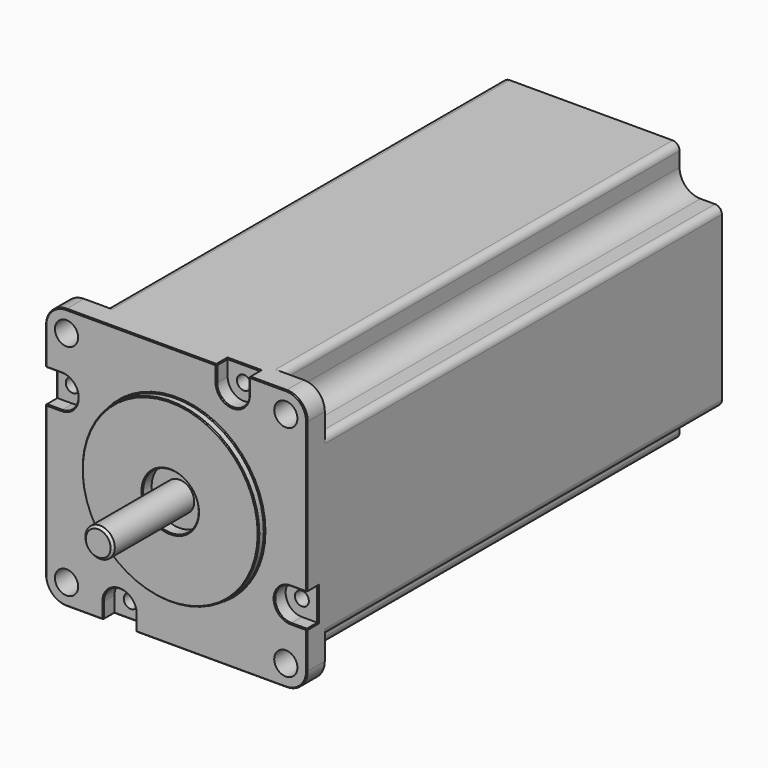
from build123d import *

# Parameters (mm, degrees)
SKETCH_R              = 19.05
PAD_DEPTH             = 1.6
SKETCH001_W           = 56.4
SKETCH001_H           = 56.4
PAD001_DEPTH          = 112
SKETCH002_R           = 6
POCKET_DEPTH          = 2.5
SKETCH003_R           = 3.175
PAD002_DEPTH          = 21.9
SKETCH004_R           = 6
POCKET001_DEPTH       = 4
SKETCH005_W           = 9.13
SKETCH005_H           = 9.13
POCKET002_DEPTH       = 1000
POLARPATTERN_COUNT    = 4
SKETCH006_R           = 2.5
POCKET003_DEPTH       = 5
POLARPATTERN001_COUNT = 4
POCKET004_DEPTH       = 3
POLARPATTERN002_COUNT = 4
FILLET_R              = 4.5
FILLET001_R           = 1.5
SKETCH008_R           = 1.5
POCKET005_DEPTH       = 1000
POLARPATTERN003_COUNT = 4
CHAMFER_SIZE          = 0.5
CHAMFER001_SIZE       = 0.2


with BuildPart() as part:
    # Sketch → Pad (new body)
    with BuildSketch(Plane.XZ):
        Circle(SKETCH_R)
    extrude(amount=PAD_DEPTH)

    # Sketch001 (on Face2 of Pad) → Pad001 (join)
    with BuildSketch(Plane(origin=(0, 0, 0), x_dir=(1, 0, 0), z_dir=(0, 1, 0))):
        Rectangle(SKETCH001_W, SKETCH001_H)
    extrude(amount=PAD001_DEPTH)

    # Sketch002 (on Face8 of Pad001) → Pocket (cut)
    with BuildSketch(Plane.XZ.offset(1.6)):
        Circle(SKETCH002_R)
    extrude(amount=-POCKET_DEPTH, mode=Mode.SUBTRACT)

    # Sketch003 (on Face10 of Pocket) → Pad002 (join)
    with BuildSketch(Plane.XZ.offset(-0.9)):
        Circle(SKETCH003_R)
    extrude(amount=PAD002_DEPTH)

    # Sketch004 (on Face5 of Pad002) → Pocket001 (cut)
    with BuildSketch(Plane(origin=(0, 112, 0), x_dir=(1, 0, 0), z_dir=(0, 1, 0))):
        Circle(SKETCH004_R)
    extrude(amount=-POCKET001_DEPTH, mode=Mode.SUBTRACT)

    # Sketch005 (on DatumPlane) → Pocket002 (cut)
    with BuildSketch(Plane.XZ.offset(-5)):
        with Locations((-23.635, 23.635)):
            Rectangle(SKETCH005_W, SKETCH005_H)
    pocket002 = extrude(amount=-POCKET002_DEPTH, mode=Mode.SUBTRACT)

    # PolarPattern: Pocket002 ×4 about axis
    polarpattern_axis = Axis((0, 5, 0), (0, -1, 0))
    for i in range(1, POLARPATTERN_COUNT):
        add(pocket002.rotate(polarpattern_axis, i * 360 / POLARPATTERN_COUNT), mode=Mode.SUBTRACT)

    # Sketch006 (on Face12 of PolarPattern) → Pocket003 (cut)
    with BuildSketch(Plane(origin=(0, 5, 0), x_dir=(1, 0, 0), z_dir=(0, 1, 0))):
        with Locations((-23.635, 23.635)):
            Circle(SKETCH006_R)
    pocket003 = extrude(amount=-POCKET003_DEPTH, mode=Mode.SUBTRACT)

    # PolarPattern001: Pocket003 ×4 about axis
    polarpattern001_axis = Axis((0, 5, 0), (0, 1, 0))
    for i in range(1, POLARPATTERN001_COUNT):
        add(pocket003.rotate(polarpattern001_axis, i * 360 / POLARPATTERN001_COUNT), mode=Mode.SUBTRACT)

    # Sketch007 (on Face2 of Pocket003) → Pocket004 (cut)
    with BuildSketch(Plane.XZ):
        with BuildLine():
            ThreePointArc((-15.7, -33.555168), (-12.2, -37.055168), (-8.7, -33.555168))
            Line((-8.7, -33.555168), (-8.7, -24.7))
            ThreePointArc((-8.7, -24.7), (-12.2, -21.2), (-15.7, -24.7))
            Line((-15.7, -33.555168), (-15.7, -24.7))
        make_face()
    pocket004 = extrude(amount=-POCKET004_DEPTH, mode=Mode.SUBTRACT)

    # PolarPattern002: Pocket004 ×4 about axis
    polarpattern002_axis = Axis((0, 0, 0), (0, -1, 0))
    for i in range(1, POLARPATTERN002_COUNT):
        add(pocket004.rotate(polarpattern002_axis, i * 360 / POLARPATTERN002_COUNT), mode=Mode.SUBTRACT)

    # Fillet
    fillet_edges = [part.edges().sort_by_distance(p)[0] for p in [
        (-19.07, 58.5, -19.07),
        (-28.2, 2.5, -28.2),
        (-19.07, 58.5, 19.07),
        (-28.2, 2.5, 28.2),
        (19.07, 58.5, 19.07),
        (28.2, 2.5, 28.2),
        (19.07, 58.5, -19.07),
        (28.2, 2.5, -28.2),
    ]]
    fillet(fillet_edges, radius=FILLET_R)

    # Fillet001
    fillet001_edges = [part.edges().sort_by_distance(p)[0] for p in [
        (28.2, 58.5, 19.07),
        (19.07, 58.5, 28.2),
        (-19.07, 58.5, 28.2),
        (-28.2, 58.5, 19.07),
        (-28.2, 58.5, -19.07),
        (-19.07, 58.5, -28.2),
        (28.2, 58.5, -19.07),
        (19.07, 58.5, -28.2),
    ]]
    fillet(fillet001_edges, radius=FILLET001_R)

    # Sketch008 (on Face12 of Fillet001) → Pocket005 (cut)
    with BuildSketch(Plane.XZ.offset(-3)):
        with Locations((-24.7, 12.2)):
            Circle(SKETCH008_R)
    pocket005 = extrude(amount=-POCKET005_DEPTH, mode=Mode.SUBTRACT)

    # PolarPattern003: Pocket005 ×4 about axis
    polarpattern003_axis = Axis((0, 3, 0), (0, -1, 0))
    for i in range(1, POLARPATTERN003_COUNT):
        add(pocket005.rotate(polarpattern003_axis, i * 360 / POLARPATTERN003_COUNT), mode=Mode.SUBTRACT)

    # Chamfer
    chamfer_edges = [part.edges().sort_by_distance(p)[0] for p in [
        (-3.175, -21, 0),
    ]]
    chamfer(chamfer_edges, length=CHAMFER_SIZE)

    # Chamfer001
    chamfer001_edges = [part.edges().sort_by_distance(p)[0] for p in [
        (-26.881981, 0, 26.881981),
        (-28.2, 0, -7.5),
        (7.5, 0, -28.2),
        (28.2, 0, 7.5),
        (-19.05, 0, 0),
        (-19.05, -1.6, 0),
        (-6, -1.6, 0),
        (-28.2, 1.5, 8.7),
        (-28.2, 3, 12.2),
        (-28.2, 1.5, 15.7),
        (-15.7, 1.5, -28.2),
        (-12.2, 3, -28.2),
        (-8.7, 1.5, -28.2),
        (28.2, 1.5, -15.7),
        (28.2, 3, -12.2),
        (28.2, 1.5, -8.7),
        (15.7, 1.5, 28.2),
        (12.2, 3, 28.2),
        (8.7, 1.5, 28.2),
        (-21.2, 0, 12.2),
        (-12.2, 0, -21.2),
        (21.2, 0, -12.2),
        (12.2, 0, 21.2),
        (-20.388019, 112, 20.388019),
        (-26.881981, 5, 26.881981),
        (26.881981, 5, 26.881981),
        (-26.881981, 5, -26.881981),
        (26.881981, 5, -26.881981),
        (-6, 112, 0),
    ]]
    chamfer(chamfer001_edges, length=CHAMFER001_SIZE)


solid = part.part
